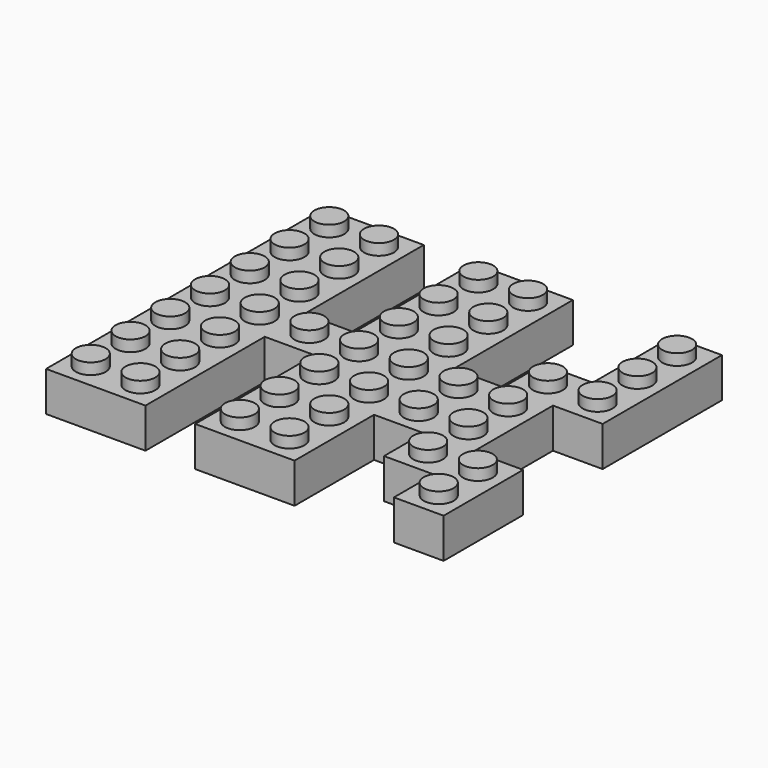
from build123d import *

# Parameters (mm, degrees)
F0_W       = 40
F0_H       = 56
F1_DEPTH   = 6.4
F2_W       = 8
F2_H       = 24
F3_DEPTH   = 9.6
F4_W       = 8
F4_H       = 24
F5_DEPTH   = 9.6
F6_W       = 16
F6_H       = 16
F7_DEPTH   = 6.4
F8_W       = 13.6
F8_H       = 53.6
F9_DEPTH   = 5.2
F10_W      = 10.4
F10_H      = 5.6
F11_DEPTH  = 5.2
F12_W      = 13.6
F12_H      = 53.6
F13_DEPTH  = 5.2
F14_W      = 16
F14_H      = 13.6
F15_DEPTH  = 5.2
F16_R      = 2.4
F17_DEPTH  = 1.8
F18_R      = 2.4
F19_DEPTH  = 1.8
F20_R      = 2.4
F21_DEPTH  = 1.8
F22_R      = 2.4
F23_DEPTH  = 1.8
F24_R      = 1.3
F25_DEPTH  = 1.2
F26_R      = 1.3
F27_DEPTH  = 1.2
F28_R      = 1.6
F29_DEPTH  = 5.2
F30_R      = 1.3
F31_DEPTH  = 1.2
F32_W      = 8
F32_H      = 8
F33_DEPTH  = 6.4
F34_W      = 8
F34_H      = 8
F35_DEPTH  = 6.4
F36_W      = 8
F36_H      = 8
F37_DEPTH  = 6.4
F38_W      = 16
F38_H      = 8
F39_DEPTH  = 6.4
F40_W      = 8
F40_H      = 16
F41_DEPTH  = 6.4
F42_R      = 2.4
F43_DEPTH  = 1.8
F44_R      = 2.4
F45_DEPTH  = 1.8
F46_R      = 2.4
F47_DEPTH  = 1.8
F48_R      = 2.4
F49_DEPTH  = 1.8
F50_W      = 5.6
F50_H      = 8
F51_DEPTH  = 5.2
F52_W      = 8
F52_H      = 5.6
F53_DEPTH  = 5.2
F54_W      = 5.6
F54_H      = 8
F55_DEPTH  = 5.2
F56_W      = 5.6
F56_H      = 8
F57_DEPTH  = 5.2
F58_W      = 8
F58_H      = 5.6
F59_DEPTH  = 5.2
F60_W      = 5.6
F60_H      = 16
F61_DEPTH  = 5.2
F62_R      = 1.3
F63_DEPTH  = 1.2
F64_R      = 1.3
F65_DEPTH  = 1.2
F66_R      = 1.256097
F67_DEPTH  = 1.2
F68_R      = 1.3
F69_DEPTH  = 1.2
F70_R      = 3.255
F71_DEPTH  = 5.2
F72_R      = 2.4
F73_DEPTH  = 5.2
F74_R      = 3.255
F75_DEPTH  = 5.2
F76_R      = 2.4
F77_DEPTH  = 5.2
F78_R      = 1.6
F79_DEPTH  = 5.2
F80_R      = 1.6
F81_DEPTH  = 5.2
F82_R      = 1.6
F83_DEPTH  = 5.2
F84_R      = 1.6
F85_DEPTH  = 5.2
F86_W      = 0.3
F86_H      = 0.6
F87_DEPTH  = 5.2
F88_W      = 0.3
F88_H      = 0.6
F89_DEPTH  = 5.2
F90_W      = 0.3
F90_H      = 0.6
F91_DEPTH  = 5.2
F92_W      = 0.3
F92_H      = 0.6
F93_DEPTH  = 5.2
F94_W      = 0.3
F94_H      = 0.6
F95_DEPTH  = 5.2
F96_W      = 0.6
F96_H      = 0.3
F97_DEPTH  = 5.2
F98_W      = 3.613872
F98_H      = 0.8
F99_DEPTH  = 1.2
F100_W     = 3.626256
F100_H     = 0.8
F101_DEPTH = 1.2
F102_W     = 1.58511
F102_H     = 0.8
F102_W_2   = 1.24217
F103_DEPTH = 1.2


with BuildPart() as f1:
    # F0 (on Top) → F1 (new body)
    with BuildSketch(Plane.XY):
        Rectangle(F0_W, F0_H)
    extrude(amount=F1_DEPTH)

    # F2 (on face) → F3 (cut)
    with BuildSketch(Plane.XY.offset(6.4)):
        with Locations((0, 16)):
            Rectangle(F2_W, F2_H)
    extrude(amount=-F3_DEPTH, mode=Mode.SUBTRACT)

    # F4 (on face) → F5 (cut)
    with BuildSketch(Plane.XY.offset(6.4)):
        with Locations((0, -16)):
            Rectangle(F4_W, F4_H)
    extrude(amount=-F5_DEPTH, mode=Mode.SUBTRACT)

    # F6 (on Top) → F7 (join)
    with BuildSketch(Plane.XY):
        with Locations((28, -4)):
            Rectangle(F6_W, F6_H)
    extrude(amount=F7_DEPTH)

    # F8 (on face) → F9 (cut)
    with BuildSketch(Plane(origin=(0, 0, 0), x_dir=(1, 0, 0), z_dir=(0, 0, -1))):
        with Locations((-12, 0)):
            Rectangle(F8_W, F8_H)
    extrude(amount=-F9_DEPTH, mode=Mode.SUBTRACT)

    # F10 (on face) → F11 (cut)
    with BuildSketch(Plane(origin=(0, 0, 0), x_dir=(1, 0, 0), z_dir=(0, 0, -1))):
        Rectangle(F10_W, F10_H)
    extrude(amount=-F11_DEPTH, mode=Mode.SUBTRACT)

    # F12 (on face) → F13 (cut)
    with BuildSketch(Plane(origin=(0, 0, 0), x_dir=(1, 0, 0), z_dir=(0, 0, -1))):
        with Locations((12, 0)):
            Rectangle(F12_W, F12_H)
    extrude(amount=-F13_DEPTH, mode=Mode.SUBTRACT)

    # F14 (on face) → F15 (cut)
    with BuildSketch(Plane(origin=(0, 0, 0), x_dir=(1, 0, 0), z_dir=(0, 0, -1))):
        with Locations((26.8, 4)):
            Rectangle(F14_W, F14_H)
    extrude(amount=-F15_DEPTH, mode=Mode.SUBTRACT)

    # F16 (on face) → F17 (join)
    with BuildSketch(Plane.XY.offset(6.4)):
        with Locations((-16.05, 24.05)):
            Circle(F16_R)
        with Locations((-16.05, 16.05)):
            Circle(F16_R)
        with Locations((-16.05, 8.05)):
            Circle(F16_R)
        with Locations((-16.05, 0.05)):
            Circle(F16_R)
        with Locations((-16.05, -7.95)):
            Circle(F16_R)
        with Locations((-16.05, -15.95)):
            Circle(F16_R)
        with Locations((-16.05, -23.95)):
            Circle(F16_R)
        with Locations((-8.05, 24.05)):
            Circle(F16_R)
        with Locations((-8.05, 16.05)):
            Circle(F16_R)
        with Locations((-8.05, 8.05)):
            Circle(F16_R)
        with Locations((-8.05, 0.05)):
            Circle(F16_R)
        with Locations((-8.05, -7.95)):
            Circle(F16_R)
        with Locations((-8.05, -15.95)):
            Circle(F16_R)
        with Locations((-8.05, -23.95)):
            Circle(F16_R)
    extrude(amount=F17_DEPTH)

    # F18 (on face) → F19 (join)
    with BuildSketch(Plane.XY.offset(6.4)):
        with Locations((7.95, 24.05)):
            Circle(F18_R)
        with Locations((7.95, 16.05)):
            Circle(F18_R)
        with Locations((7.95, 8.05)):
            Circle(F18_R)
        with Locations((7.95, 0.05)):
            Circle(F18_R)
        with Locations((7.95, -7.95)):
            Circle(F18_R)
        with Locations((7.95, -15.95)):
            Circle(F18_R)
        with Locations((7.95, -23.95)):
            Circle(F18_R)
        with Locations((15.95, 24.05)):
            Circle(F18_R)
        with Locations((15.95, 16.05)):
            Circle(F18_R)
        with Locations((15.95, 8.05)):
            Circle(F18_R)
        with Locations((15.95, 0.05)):
            Circle(F18_R)
        with Locations((15.95, -7.95)):
            Circle(F18_R)
        with Locations((15.95, -15.95)):
            Circle(F18_R)
        with Locations((15.95, -23.95)):
            Circle(F18_R)
    extrude(amount=F19_DEPTH)

    # F20 (on face) → F21 (join)
    with BuildSketch(Plane.XY.offset(6.4)):
        with Locations((-0.05, 0.05)):
            Circle(F20_R)
    extrude(amount=F21_DEPTH)

    # F22 (on face) → F23 (join)
    with BuildSketch(Plane.XY.offset(6.4)):
        with Locations((23.95, 0.05)):
            Circle(F22_R)
        with Locations((23.95, -7.95)):
            Circle(F22_R)
        with Locations((31.95, 0.05)):
            Circle(F22_R)
        with Locations((31.95, -7.95)):
            Circle(F22_R)
    extrude(amount=F23_DEPTH)

    # F24 (on face) → F25 (cut)
    with BuildSketch(Plane(origin=(0, 0, 5.2), x_dir=(1, 0, 0), z_dir=(0, 0, -1))):
        with Locations((-16.05, 24.05)):
            Circle(F24_R)
        with Locations((-16.05, 16.05)):
            Circle(F24_R)
        with Locations((-16.05, 8.05)):
            Circle(F24_R)
        with Locations((-16.05, 0.05)):
            Circle(F24_R)
        with Locations((-16.05, -7.95)):
            Circle(F24_R)
        with Locations((-16.05, -15.95)):
            Circle(F24_R)
        with Locations((-16.05, -23.95)):
            Circle(F24_R)
        with Locations((-8.05, 24.05)):
            Circle(F24_R)
        with Locations((-8.05, 16.05)):
            Circle(F24_R)
        with Locations((-8.05, 8.05)):
            Circle(F24_R)
        with Locations((-8.05, 0.05)):
            Circle(F24_R)
        with Locations((-8.05, -7.95)):
            Circle(F24_R)
        with Locations((-8.05, -15.95)):
            Circle(F24_R)
        with Locations((-8.05, -23.95)):
            Circle(F24_R)
    extrude(amount=-F25_DEPTH, mode=Mode.SUBTRACT)

    # F26 (on face) → F27 (cut)
    with BuildSketch(Plane(origin=(0, 0, 5.2), x_dir=(1, 0, 0), z_dir=(0, 0, -1))):
        with Locations((7.95, 24.05)):
            Circle(F26_R)
        with Locations((7.95, 16.05)):
            Circle(F26_R)
        with Locations((7.95, 8.05)):
            Circle(F26_R)
        with Locations((7.95, 0.05)):
            Circle(F26_R)
        with Locations((7.95, -7.95)):
            Circle(F26_R)
        with Locations((7.95, -15.95)):
            Circle(F26_R)
        with Locations((7.95, -23.95)):
            Circle(F26_R)
        with Locations((15.95, 24.05)):
            Circle(F26_R)
        with Locations((15.95, 16.05)):
            Circle(F26_R)
        with Locations((15.95, 8.05)):
            Circle(F26_R)
        with Locations((15.95, 0.05)):
            Circle(F26_R)
        with Locations((15.95, -7.95)):
            Circle(F26_R)
        with Locations((15.95, -15.95)):
            Circle(F26_R)
        with Locations((15.95, -23.95)):
            Circle(F26_R)
    extrude(amount=-F27_DEPTH, mode=Mode.SUBTRACT)

    # F28 (on face) → F29 (join, through all)
    with BuildSketch(Plane(origin=(0, 0, 5.2), x_dir=(1, 0, 0), z_dir=(0, 0, -1))):
        with Locations((-0.05, 0.05)):
            Circle(F28_R)
    extrude(amount=F29_DEPTH)

    # F30 (on face) → F31 (cut)
    with BuildSketch(Plane(origin=(0, 0, 5.2), x_dir=(1, 0, 0), z_dir=(0, 0, -1))):
        with Locations((32.05, -0.05)):
            Circle(F30_R)
        with Locations((32.05, 7.95)):
            Circle(F30_R)
        with Locations((24.05, -0.05)):
            Circle(F30_R)
        with Locations((24.05, 7.95)):
            Circle(F30_R)
    extrude(amount=-F31_DEPTH, mode=Mode.SUBTRACT)

    # F32 (on Top) → F33 (join)
    with BuildSketch(Plane.XY):
        with Locations((32, -16)):
            Rectangle(F32_W, F32_H)
    extrude(amount=F33_DEPTH)

    # F34 (on Top) → F35 (join)
    with BuildSketch(Plane.XY):
        with Locations((40, -16)):
            Rectangle(F34_W, F34_H)
    extrude(amount=F35_DEPTH)

    # F36 (on Top) → F37 (join)
    with BuildSketch(Plane.XY):
        with Locations((40, -24)):
            Rectangle(F36_W, F36_H)
    extrude(amount=F37_DEPTH)

    # F38 (on Top) → F39 (join)
    with BuildSketch(Plane.XY):
        with Locations((36, 8)):
            Rectangle(F38_W, F38_H)
    extrude(amount=F39_DEPTH)

    # F40 (on Top) → F41 (join)
    with BuildSketch(Plane.XY):
        with Locations((40, 20)):
            Rectangle(F40_W, F40_H)
    extrude(amount=F41_DEPTH)

    # F42 (on face) → F43 (join)
    with BuildSketch(Plane.XY.offset(6.4)):
        with Locations((31.95, 8.05)):
            Circle(F42_R)
        with Locations((39.95, 8.05)):
            Circle(F42_R)
    extrude(amount=F43_DEPTH)

    # F44 (on face) → F45 (join)
    with BuildSketch(Plane.XY.offset(6.4)):
        with Locations((39.95, 24.05)):
            Circle(F44_R)
        with Locations((39.95, 16.05)):
            Circle(F44_R)
    extrude(amount=F45_DEPTH)

    # F46 (on face) → F47 (join)
    with BuildSketch(Plane.XY.offset(6.4)):
        with Locations((31.95, -16.05)):
            Circle(F46_R)
        with Locations((39.95, -16.05)):
            Circle(F46_R)
    extrude(amount=F47_DEPTH)

    # F48 (on face) → F49 (join)
    with BuildSketch(Plane.XY.offset(6.4)):
        with Locations((40.05, -24.05)):
            Circle(F48_R)
    extrude(amount=F49_DEPTH)

    # F50 (on face) → F51 (cut)
    with BuildSketch(Plane(origin=(0, 0, 0), x_dir=(1, 0, 0), z_dir=(0, 0, -1))):
        with Locations((32, 14.8)):
            Rectangle(F50_W, F50_H)
    extrude(amount=-F51_DEPTH, mode=Mode.SUBTRACT)

    # F52 (on face) → F53 (cut)
    with BuildSketch(Plane(origin=(0, 0, 0), x_dir=(1, 0, 0), z_dir=(0, 0, -1))):
        with Locations((38.8, 16)):
            Rectangle(F52_W, F52_H)
    extrude(amount=-F53_DEPTH, mode=Mode.SUBTRACT)

    # F54 (on face) → F55 (cut)
    with BuildSketch(Plane(origin=(0, 0, 0), x_dir=(1, 0, 0), z_dir=(0, 0, -1))):
        with Locations((40, 22.8)):
            Rectangle(F54_W, F54_H)
    extrude(amount=-F55_DEPTH, mode=Mode.SUBTRACT)

    # F56 (on face) → F57 (cut)
    with BuildSketch(Plane(origin=(0, 0, 0), x_dir=(1, 0, 0), z_dir=(0, 0, -1))):
        with Locations((32, -6.8)):
            Rectangle(F56_W, F56_H)
    extrude(amount=-F57_DEPTH, mode=Mode.SUBTRACT)

    # F58 (on face) → F59 (cut)
    with BuildSketch(Plane(origin=(0, 0, 0), x_dir=(1, 0, 0), z_dir=(0, 0, -1))):
        with Locations((38.8, -8)):
            Rectangle(F58_W, F58_H)
    extrude(amount=-F59_DEPTH, mode=Mode.SUBTRACT)

    # F60 (on face) → F61 (cut)
    with BuildSketch(Plane(origin=(0, 0, 0), x_dir=(1, 0, 0), z_dir=(0, 0, -1))):
        with Locations((40, -18.8)):
            Rectangle(F60_W, F60_H)
    extrude(amount=-F61_DEPTH, mode=Mode.SUBTRACT)

    # F62 (on face) → F63 (cut)
    with BuildSketch(Plane(origin=(0, 0, 5.2), x_dir=(1, 0, 0), z_dir=(0, 0, -1))):
        with Locations((32, -8)):
            Circle(F62_R)
    extrude(amount=-F63_DEPTH, mode=Mode.SUBTRACT)

    # F64 (on face) → F65 (cut)
    with BuildSketch(Plane(origin=(0, 0, 5.2), x_dir=(1, 0, 0), z_dir=(0, 0, -1))):
        with Locations((40.05, -7.95)):
            Circle(F64_R)
    extrude(amount=-F65_DEPTH, mode=Mode.SUBTRACT)

    # F66 (on face) → F67 (cut)
    with BuildSketch(Plane(origin=(0, 0, 5.2), x_dir=(1, 0, 0), z_dir=(0, 0, -1))):
        with Locations((39.919153, -23.857586)):
            Circle(F66_R)
        with Locations((39.919153, -15.857586)):
            Circle(F66_R)
    extrude(amount=-F67_DEPTH, mode=Mode.SUBTRACT)

    # F68 (on face) → F69 (cut)
    with BuildSketch(Plane(origin=(0, 0, 5.2), x_dir=(1, 0, 0), z_dir=(0, 0, -1))):
        with Locations((40.05, 15.95)):
            Circle(F68_R)
        with Locations((32.05, 15.95)):
            Circle(F68_R)
        with Locations((40.05, 23.95)):
            Circle(F68_R)
    extrude(amount=-F69_DEPTH, mode=Mode.SUBTRACT)

    # F70 (on face) → F71 (join, through all)
    with BuildSketch(Plane(origin=(0, 0, 5.2), x_dir=(1, 0, 0), z_dir=(0, 0, -1))):
        with Locations((-12.05, 20.05)):
            Circle(F70_R)
        with Locations((-12.05, 12.05)):
            Circle(F70_R)
        with Locations((-12.05, 4.05)):
            Circle(F70_R)
        with Locations((-12.05, -3.95)):
            Circle(F70_R)
        with Locations((-12.05, -11.95)):
            Circle(F70_R)
        with Locations((-12.05, -19.95)):
            Circle(F70_R)
        with Locations((11.95, 20.05)):
            Circle(F70_R)
        with Locations((11.95, 12.05)):
            Circle(F70_R)
        with Locations((11.95, 4.05)):
            Circle(F70_R)
        with Locations((11.95, -3.95)):
            Circle(F70_R)
        with Locations((11.95, -11.95)):
            Circle(F70_R)
        with Locations((11.95, -19.95)):
            Circle(F70_R)
    extrude(amount=F71_DEPTH)

    # F72 (on Top) → F73 (cut, through all)
    with BuildSketch(Plane.XY):
        with Locations((-12.05, -20.05)):
            Circle(F72_R)
        with Locations((-12.05, -12.05)):
            Circle(F72_R)
        with Locations((-12.05, -4.05)):
            Circle(F72_R)
        with Locations((-12.05, 3.95)):
            Circle(F72_R)
        with Locations((-12.05, 11.95)):
            Circle(F72_R)
        with Locations((-12.05, 19.95)):
            Circle(F72_R)
        with Locations((11.95, -20.05)):
            Circle(F72_R)
        with Locations((11.95, -12.05)):
            Circle(F72_R)
        with Locations((11.95, -4.05)):
            Circle(F72_R)
        with Locations((11.95, 3.95)):
            Circle(F72_R)
        with Locations((11.95, 11.95)):
            Circle(F72_R)
        with Locations((11.95, 19.95)):
            Circle(F72_R)
    extrude(amount=F73_DEPTH, mode=Mode.SUBTRACT)

    # F74 (on face) → F75 (join, through all)
    with BuildSketch(Plane(origin=(0, 0, 5.2), x_dir=(1, 0, 0), z_dir=(0, 0, -1))):
        with Locations((20, 4)):
            Circle(F74_R)
        with Locations((28, 4)):
            Circle(F74_R)
    extrude(amount=F75_DEPTH)

    # F76 (on face) → F77 (cut, through all)
    with BuildSketch(Plane(origin=(0, 0, 0), x_dir=(1, 0, 0), z_dir=(0, 0, -1))):
        with Locations((20, 4)):
            Circle(F76_R)
        with Locations((28, 4)):
            Circle(F76_R)
    extrude(amount=-F77_DEPTH, mode=Mode.SUBTRACT)

    # F78 (on face) → F79 (join, through all)
    with BuildSketch(Plane(origin=(0, 0, 5.2), x_dir=(1, 0, 0), z_dir=(0, 0, -1))):
        with Locations((36, 16)):
            Circle(F78_R)
    extrude(amount=F79_DEPTH)

    # F80 (on face) → F81 (join, through all)
    with BuildSketch(Plane(origin=(0, 0, 5.2), x_dir=(1, 0, 0), z_dir=(0, 0, -1))):
        with Locations((40, 20)):
            Circle(F80_R)
    extrude(amount=F81_DEPTH)

    # F82 (on face) → F83 (join, through all)
    with BuildSketch(Plane(origin=(0, 0, 5.2), x_dir=(1, 0, 0), z_dir=(0, 0, -1))):
        with Locations((40, -12)):
            Circle(F82_R)
        with Locations((40, -20)):
            Circle(F82_R)
    extrude(amount=F83_DEPTH)

    # F84 (on face) → F85 (join, through all)
    with BuildSketch(Plane(origin=(0, 0, 5.2), x_dir=(1, 0, 0), z_dir=(0, 0, -1))):
        with Locations((36, -7.785979)):
            Circle(F84_R)
    extrude(amount=F85_DEPTH)

    # F86 (on face) → F87 (join, through all)
    with BuildSketch(Plane(origin=(0, 0, 0), x_dir=(1, 0, 0), z_dir=(0, 0, -1))):
        with Locations((-18.65, 24.05)):
            Rectangle(F86_W, F86_H)
        with Locations((-18.65, 16.05)):
            Rectangle(F86_W, F86_H)
        with Locations((-18.65, 8.05)):
            Rectangle(F86_W, F86_H)
        with Locations((-18.65, 0.05)):
            Rectangle(F86_W, F86_H)
        with Locations((-18.65, -7.95)):
            Rectangle(F86_W, F86_H)
        with Locations((-18.65, -15.95)):
            Rectangle(F86_W, F86_H)
        with Locations((-18.65, -23.95)):
            Rectangle(F86_W, F86_H)
        with Locations((-5.35, 24.05)):
            Rectangle(F86_W, F86_H)
        with Locations((-5.35, 16.05)):
            Rectangle(F86_W, F86_H)
        with Locations((-5.35, 8.05)):
            Rectangle(F86_W, F86_H)
        with Locations((-5.35, 0.05)):
            Rectangle(F86_W, F86_H)
        with Locations((-5.35, -7.95)):
            Rectangle(F86_W, F86_H)
        with Locations((-5.35, -15.95)):
            Rectangle(F86_W, F86_H)
        with Locations((-5.35, -23.95)):
            Rectangle(F86_W, F86_H)
    extrude(amount=-F87_DEPTH)

    # F88 (on face) → F89 (cut)
    with BuildSketch(Plane(origin=(0, 0, 0), x_dir=(1, 0, 0), z_dir=(0, 0, -1))):
        with Locations((-5.35, 0.05)):
            Rectangle(F88_W, F88_H)
    extrude(amount=-F89_DEPTH, mode=Mode.SUBTRACT)

    # F90 (on face) → F91 (join, through all)
    with BuildSketch(Plane(origin=(0, 0, 0), x_dir=(1, 0, 0), z_dir=(0, 0, -1))):
        with Locations((5.35, 24.05)):
            Rectangle(F90_W, F90_H)
        with Locations((5.35, 16.05)):
            Rectangle(F90_W, F90_H)
        with Locations((5.35, 8.05)):
            Rectangle(F90_W, F90_H)
        with Locations((5.35, 0.05)):
            Rectangle(F90_W, F90_H)
        with Locations((5.35, -7.95)):
            Rectangle(F90_W, F90_H)
        with Locations((5.35, -15.95)):
            Rectangle(F90_W, F90_H)
        with Locations((5.35, -23.95)):
            Rectangle(F90_W, F90_H)
        with Locations((18.65, 24.05)):
            Rectangle(F90_W, F90_H)
        with Locations((18.65, 16.05)):
            Rectangle(F90_W, F90_H)
        with Locations((18.65, 8.05)):
            Rectangle(F90_W, F90_H)
        with Locations((18.65, 0.05)):
            Rectangle(F90_W, F90_H)
        with Locations((18.65, -7.95)):
            Rectangle(F90_W, F90_H)
        with Locations((18.65, -15.95)):
            Rectangle(F90_W, F90_H)
        with Locations((18.65, -23.95)):
            Rectangle(F90_W, F90_H)
    extrude(amount=-F91_DEPTH)

    # F92 (on face) → F93 (cut)
    with BuildSketch(Plane(origin=(0, 0, 0), x_dir=(1, 0, 0), z_dir=(0, 0, -1))):
        with Locations((5.35, 0.05)):
            Rectangle(F92_W, F92_H)
    extrude(amount=-F93_DEPTH, mode=Mode.SUBTRACT)

    # F94 (on face) → F95 (cut)
    with BuildSketch(Plane(origin=(0, 0, 0), x_dir=(1, 0, 0), z_dir=(0, 0, -1))):
        with Locations((18.65, 0.05)):
            Rectangle(F94_W, F94_H)
        with Locations((18.65, 8.05)):
            Rectangle(F94_W, F94_H)
    extrude(amount=-F95_DEPTH, mode=Mode.SUBTRACT)

    # F96 (on face) → F97 (join)
    with BuildSketch(Plane(origin=(0, 0, 5.2), x_dir=(1, 0, 0), z_dir=(0, 0, -1))):
        with Locations((24.1, -2.65)):
            Rectangle(F96_W, F96_H)
        with Locations((24.1, 10.65)):
            Rectangle(F96_W, F96_H)
    extrude(amount=F97_DEPTH)

    # F98 (on face) → F99 (join)
    with BuildSketch(Plane(origin=(0, 0, 5.2), x_dir=(1, 0, 0), z_dir=(0, 0, -1))):
        with Locations((-7.006936, 20.1)):
            Rectangle(F98_W, F98_H)
        with Locations((-7.006936, 12.1)):
            Rectangle(F98_W, F98_H)
        with Locations((-7.006936, 4.1)):
            Rectangle(F98_W, F98_H)
        with Locations((-7.006936, -3.9)):
            Rectangle(F98_W, F98_H)
        with Locations((-7.006936, -11.9)):
            Rectangle(F98_W, F98_H)
        with Locations((-7.006936, -19.9)):
            Rectangle(F98_W, F98_H)
        with Locations((-17.006936, 20.1)):
            Rectangle(F98_W, F98_H)
        with Locations((-17.006936, 12.1)):
            Rectangle(F98_W, F98_H)
        with Locations((-17.006936, 4.1)):
            Rectangle(F98_W, F98_H)
        with Locations((-17.006936, -3.9)):
            Rectangle(F98_W, F98_H)
        with Locations((-17.006936, -11.9)):
            Rectangle(F98_W, F98_H)
        with Locations((-17.006936, -19.9)):
            Rectangle(F98_W, F98_H)
    extrude(amount=F99_DEPTH)

    # F100 (on face) → F101 (join)
    with BuildSketch(Plane(origin=(0, 0, 5.2), x_dir=(1, 0, 0), z_dir=(0, 0, -1))):
        with Locations((16.986872, 20.1)):
            Rectangle(F100_W, F100_H)
        with Locations((16.986872, 12.1)):
            Rectangle(F100_W, F100_H)
        with Locations((16.986872, 4.1)):
            Rectangle(F100_W, F100_H)
        with Locations((16.986872, -3.9)):
            Rectangle(F100_W, F100_H)
        with Locations((16.986872, -11.9)):
            Rectangle(F100_W, F100_H)
        with Locations((16.986872, -19.9)):
            Rectangle(F100_W, F100_H)
        with Locations((6.986872, 20.1)):
            Rectangle(F100_W, F100_H)
        with Locations((6.986872, 12.1)):
            Rectangle(F100_W, F100_H)
        with Locations((6.986872, 4.1)):
            Rectangle(F100_W, F100_H)
        with Locations((6.986872, -3.9)):
            Rectangle(F100_W, F100_H)
        with Locations((6.986872, -11.9)):
            Rectangle(F100_W, F100_H)
        with Locations((6.986872, -19.9)):
            Rectangle(F100_W, F100_H)
    extrude(amount=F101_DEPTH)

    # F102 (on face) → F103 (cut)
    with BuildSketch(Plane(origin=(0, 0, 4), x_dir=(1, 0, 0), z_dir=(0, 0, -1))):
        with Locations((15.966299, 4.1)):
            Rectangle(F102_W, F102_H)
        with Locations((18.309283, 4.1)):
            Rectangle(F102_W_2, F102_H)
    extrude(amount=-F103_DEPTH, mode=Mode.SUBTRACT)


solid = f1.part
